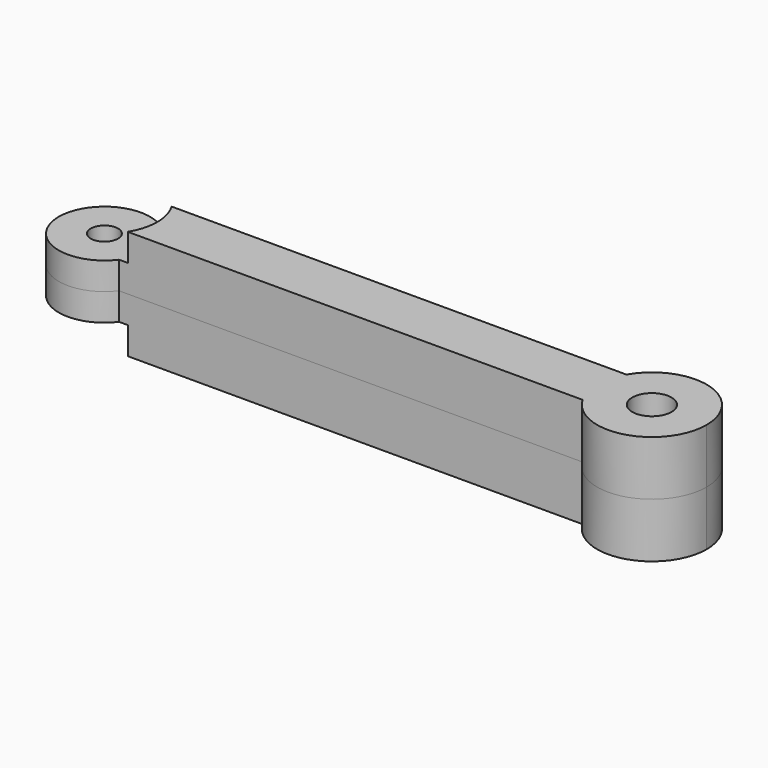
from build123d import *

# Parameters (mm, degrees)
F0_R     = 2.15
F0_R_2   = 1.5
F1_DEPTH = 6
F2_R     = 5.8
F3_DEPTH = 3
F5_R     = 2.3
F6_DEPTH = 3


with BuildPart() as f1:
    # F0 (on Top) → F1 (new body)
    with BuildSketch(Plane.XY):
        with BuildLine():
            ThreePointArc((-5.196152, -3), (1.552914, -5.795555), (6, 0))
            ThreePointArc((6, 0), (1.552914, 5.795555), (-5.196152, 3))
            ThreePointArc((-5.196152, 3), (-6, 0), (-5.196152, -3))
        make_face()
        Circle(F0_R, mode=Mode.SUBTRACT)
        with BuildLine():
            ThreePointArc((-5.196152, -3), (-6, 0), (-5.196152, 3))
            Line((-5.196152, 3), (-56, 3))
            ThreePointArc((-56, 3), (-55.256584, 1.581139), (-55, 0))
            ThreePointArc((-55, 0), (-55.256584, -1.581139), (-56, -3))
            Line((-56, -3), (-5.196152, -3))
        make_face()
        with BuildLine():
            ThreePointArc((-55, 0), (-55.256584, 1.581139), (-56, 3))
            ThreePointArc((-56, 3), (-65, 0), (-56, -3))
            ThreePointArc((-56, -3), (-55.256584, -1.581139), (-55, 0))
        make_face()
        with Locations((-60, 0)):
            Circle(F0_R_2, mode=Mode.SUBTRACT)
    extrude(amount=F1_DEPTH)

    # F2 (on face) → F3 (cut)
    with BuildSketch(Plane.XY.offset(6)):
        with Locations((-60, 0)):
            Circle(F2_R)
    extrude(amount=-F3_DEPTH, mode=Mode.SUBTRACT)


with BuildPart() as f4_1:
    # F4: instance of F1
    add(f1.part.mirror(Plane(origin=(-28.597693, 0, 0), x_dir=(1, 0, 0), z_dir=(0, 0, -1))))

    # F5 (on face) → F6 (cut, through all)
    with BuildSketch(Plane(origin=(0, 0, -3), x_dir=(1, 0, 0), z_dir=(0, 0, -1))):
        with Locations((-60, 0)):
            Circle(F5_R)
    extrude(amount=-F6_DEPTH, mode=Mode.SUBTRACT)


solid = Compound([f1.part, f4_1.part])
